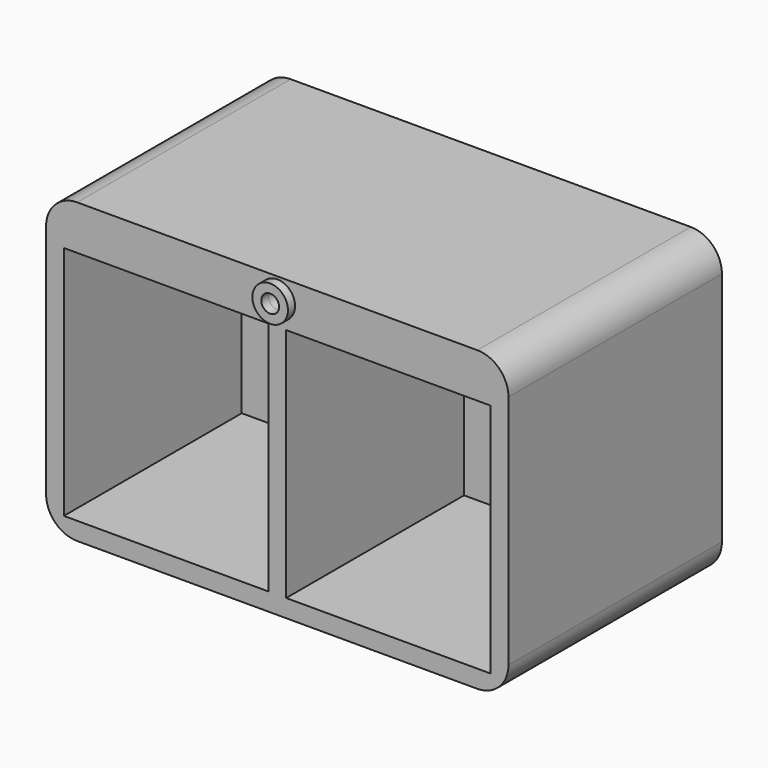
from build123d import *

# Parameters (mm, degrees)
F0_W     = 58.405198
F0_H     = 67.360154
F1_DEPTH = 76.2
F2_DEPTH = 12.7
F3_R     = 8.89
F4_R     = 3.81
F5_DEPTH = 25.4
F6_R     = 2.54
F7_DEPTH = 76.201
F6_R_2   = 5.08
F8_DEPTH = 2.54


with BuildPart() as f1:
    # F0 (on Front) → F1 (new body)
    with BuildSketch(Plane.XZ):
        Polygon((66.025198, -42.570077), (66.025198, 42.570077), (2.54, 42.570077), (-2.54, 42.570077), (-66.025198, 42.570077), (-66.025198, -42.570077), (-2.54, -42.570077), (2.54, -42.570077), align=None)
        with Locations((-31.742599, -3.81)):
            Rectangle(F0_W, F0_H, mode=Mode.SUBTRACT)
        with Locations((31.742599, -3.81)):
            Rectangle(F0_W, F0_H, mode=Mode.SUBTRACT)
    extrude(amount=F1_DEPTH)

    # F0 (on Front) → F2 (join)
    with BuildSketch(Plane.XZ):
        with Locations((-31.742599, -3.81)):
            Rectangle(F0_W, F0_H)
        with Locations((31.742599, -3.81)):
            Rectangle(F0_W, F0_H)
    extrude(amount=F2_DEPTH)

    # F3
    f3_edges = [f1.edges().sort_by_distance(p)[0] for p in [
        (66.025198, -38.1, 42.570077),
        (-66.025198, -38.1, -42.570077),
        (66.025198, -38.1, -42.570077),
        (-66.025198, -38.1, 42.570077),
    ]]
    fillet(f3_edges, radius=F3_R)

    # F4 (on face) → F5 (cut)
    with BuildSketch(Plane.XZ.offset(12.7)):
        with Locations((-34.964384, -0.660077)):
            Circle(F4_R)
        with Locations((34.385315, -0.660077)):
            Circle(F4_R)
    extrude(amount=-F5_DEPTH, mode=Mode.SUBTRACT)

    # F6 (on face) → F7 (cut, through all)
    with BuildSketch(Plane.XZ.offset(76.2)):
        with Locations((0, 36.728077)):
            Circle(F6_R)
    extrude(amount=-F7_DEPTH, mode=Mode.SUBTRACT)

    # F6 (on face) → F8 (join)
    with BuildSketch(Plane.XZ.offset(76.2)):
        with Locations((0, 36.728077)):
            Circle(F6_R_2)
        with Locations((0, 36.728077)):
            Circle(F6_R, mode=Mode.SUBTRACT)
    extrude(amount=F8_DEPTH)


solid = f1.part
